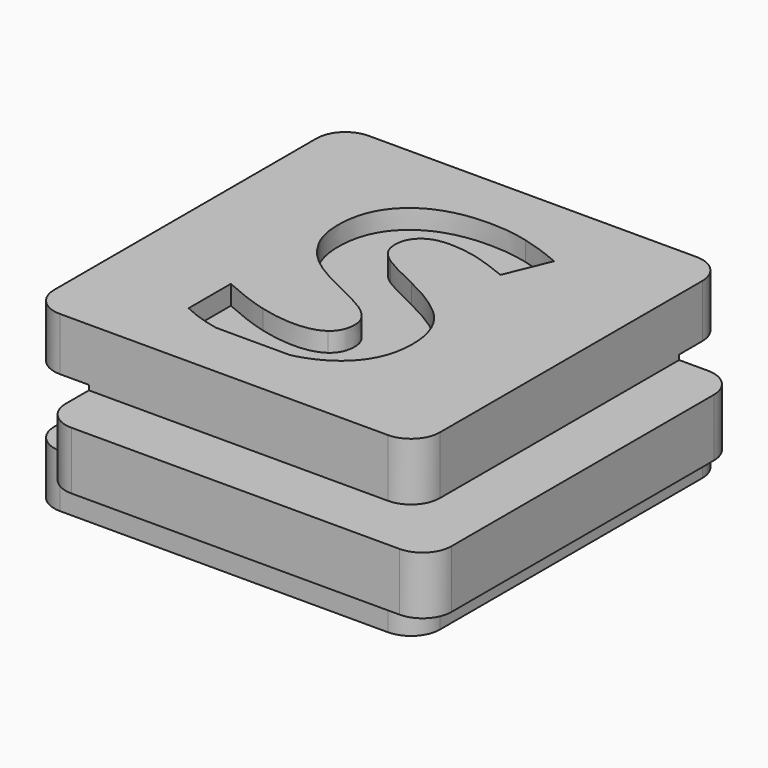
from build123d import *

# Parameters (mm, degrees)
F0_W     = 14
F0_H     = 3
F0_W_2   = 3
F1_DEPTH = 20
F2_DEPTH = 3
F3_W     = 3
F3_H     = 3
F4_DEPTH = 100
F5_W     = 3
F5_H     = 3.5
F6_DEPTH = 100
F7_R     = 1.5
F9_DEPTH = 1


with BuildPart() as f1:
    # F0 (on Front) → F1 (new body)
    with BuildSketch(Plane.XZ):
        Polygon((10, 1.5), (10, 4.5), (-10, 4.5), (-10, 1.5), (-7, 1.5), (7, 1.5), align=None)
        Rectangle(F0_W, F0_H)
        with Locations((11.5, 0)):
            Rectangle(F0_W_2, F0_H)
        with Locations((8.5, 0)):
            Rectangle(F0_W_2, F0_H)
        with Locations((-8.5, 0)):
            Rectangle(F0_W_2, F0_H)
        Polygon((10, -4.5), (10, -1.5), (7, -1.5), (-7, -1.5), (-10, -1.5), (-10, -4.5), align=None)
    extrude(amount=-F1_DEPTH)

    # F0 (on Front) → F2 (join)
    with BuildSketch(Plane.XZ):
        with Locations((-8.5, 0)):
            Rectangle(F0_W_2, F0_H)
        Rectangle(F0_W, F0_H)
        with Locations((8.5, 0)):
            Rectangle(F0_W_2, F0_H)
        with Locations((11.5, 0)):
            Rectangle(F0_W_2, F0_H)
    extrude(amount=F2_DEPTH)

    # F3 (on face) → F4 (cut)
    with BuildSketch(Plane.YZ.offset(13)):
        Polygon((23, -1.75), (23, 1.75), (17, 1.75), (17, 1.5), (20, 1.5), (20, -1.5), (17, -1.5), (17, -1.75), align=None)
        with Locations((18.5, 0)):
            Rectangle(F3_W, F3_H)
    extrude(amount=-F4_DEPTH, mode=Mode.SUBTRACT)

    # F5 (on face) → F6 (cut)
    with BuildSketch(Plane(origin=(0, 17, 0), x_dir=(-1, 0, 0), z_dir=(0, 1, 0))):
        with Locations((11.5, 0)):
            Rectangle(F5_W, F5_H)
        with Locations((8.5, 0)):
            Rectangle(F5_W, F5_H)
    extrude(amount=-F6_DEPTH, mode=Mode.SUBTRACT)

    # F7
    f7_edges = [f1.edges().sort_by_distance(p)[0] for p in [
        (-7, -3, 0),
        (13, -3, 0),
        (10, 0, 3),
        (10, 0, -3),
        (-10, 0, -3.125),
        (-10, 0, 3.125),
        (-7, 17, 0),
        (-10, 20, 3.125),
        (-10, 20, -3.125),
        (13, 17, 0),
        (10, 20, 3.125),
        (10, 20, -3.125),
    ]]
    fillet(f7_edges, radius=F7_R)

    # F8 (on face) → F9 (cut)
    with BuildSketch(Plane.XY.offset(4.5)):
        with BuildLine():
            Line((-2.8206877235, 3), (1.0255347449, 3))
            add(Edge.make_bspline(
                [(2.9492867111, 3.8917100694), (2.1647599693, 3.2639125757), (1.0255347449, 3)],
                knots=[0, 0, 0, 0.5796214889, 0.5796214889, 0.5796214889], degree=2))
            add(Edge.make_bspline(
                [(4.3028023361, 6.85546875), (4.3028023361, 4.9748263889), (2.9492867111, 3.8917100694)],
                knots=[0, 0, 0, 1, 1, 1], degree=2))
            add(Edge.make_bspline(
                [(3.5812311556, 9.1477864583), (4.3028023361, 8.2135416667), (4.3028023361, 6.85546875)],
                knots=[0, 0, 0, 1, 1, 1], degree=2))
            add(Edge.make_bspline(
                [(0.9121773361, 11.0147569444), (2.859659975, 10.08203125), (3.5812311556, 9.1477864583)],
                knots=[0, 0, 0, 1, 1, 1], degree=2))
            add(Edge.make_bspline(
                [(-0.9517549555, 11.9869791667), (-0.558308775, 11.7165798611), (0.9121773361, 11.0147569444)],
                knots=[0, 0, 0, 1, 1, 1], degree=2))
            add(Edge.make_bspline(
                [(-1.5259737055, 12.5475260417), (-1.3452011361, 12.2573784722), (-0.9517549555, 11.9869791667)],
                knots=[0, 0, 0, 1, 1, 1], degree=2))
            add(Edge.make_bspline(
                [(-1.706746275, 13.2265625), (-1.706746275, 12.8376736111), (-1.5259737055, 12.5475260417)],
                knots=[0, 0, 0, 1, 1, 1], degree=2))
            add(Edge.make_bspline(
                [(-1.2601316916, 14.2413194444), (-1.706746275, 13.8524305556), (-1.706746275, 13.2265625)],
                knots=[0, 0, 0, 1, 1, 1], degree=2))
            add(Edge.make_bspline(
                [(0.0219863639, 14.6302083333), (-0.8135171083, 14.6302083333), (-1.2601316916, 14.2413194444)],
                knots=[0, 0, 0, 1, 1, 1], degree=2))
            add(Edge.make_bspline(
                [(1.4499377528, 14.4494357639), (0.7238092806, 14.6302083333), (0.0219863639, 14.6302083333)],
                knots=[0, 0, 0, 1, 1, 1], degree=2))
            add(Edge.make_bspline(
                [(3.2880453917, 13.8129340278), (2.176066225, 14.2686631944), (1.4499377528, 14.4494357639)],
                knots=[0, 0, 0, 1, 1, 1], degree=2))
            Line((3.2880453917, 13.8129340278), (4.2359620584, 16.1037326389))
            add(Edge.make_bspline(
                [(2.1806235167, 16.8237847222), (3.1634794195, 16.5685763889), (4.2359620584, 16.1037326389)],
                knots=[0, 0, 0, 1, 1, 1], degree=2))
            add(Edge.make_bspline(
                [(0.1161703917, 17.0789930556), (1.1977676139, 17.0789930556), (2.1806235167, 16.8237847222)],
                knots=[0, 0, 0, 1, 1, 1], degree=2))
            add(Edge.make_bspline(
                [(-3.3352184972, 16.0262586806), (-2.0865205805, 17.0789930556), (0.1161703917, 17.0789930556)],
                knots=[0, 0, 0, 1, 1, 1], degree=2))
            add(Edge.make_bspline(
                [(-4.5839164139, 13.1293402778), (-4.5839164139, 14.9735243056), (-3.3352184972, 16.0262586806)],
                knots=[0, 0, 0, 1, 1, 1], degree=2))
            add(Edge.make_bspline(
                [(-4.2041421083, 11.421875), (-4.5839164139, 12.1540798611), (-4.5839164139, 13.1293402778)],
                knots=[0, 0, 0, 1, 1, 1], degree=2))
            add(Edge.make_bspline(
                [(-3.1878660666, 10.1397569444), (-3.8243678027, 10.6896701389), (-4.2041421083, 11.421875)],
                knots=[0, 0, 0, 1, 1, 1], degree=2))
            add(Edge.make_bspline(
                [(-1.2813990527, 8.9913194444), (-2.5513643305, 9.58984375), (-3.1878660666, 10.1397569444)],
                knots=[0, 0, 0, 1, 1, 1], degree=2))
            add(Edge.make_bspline(
                [(0.5187311556, 8.0509982639), (0.0766738639, 8.3441840278), (-1.2813990527, 8.9913194444)],
                knots=[0, 0, 0, 1, 1, 1], degree=2))
            add(Edge.make_bspline(
                [(1.1886530306, 7.4388020833), (0.9607884473, 7.7578125), (0.5187311556, 8.0509982639)],
                knots=[0, 0, 0, 1, 1, 1], degree=2))
            add(Edge.make_bspline(
                [(1.4165176139, 6.7126736111), (1.4165176139, 7.1197916667), (1.1886530306, 7.4388020833)],
                knots=[0, 0, 0, 1, 1, 1], degree=2))
            add(Edge.make_bspline(
                [(0.8985054611, 5.611328125), (1.4165176139, 5.98046875), (1.4165176139, 6.7126736111)],
                knots=[0, 0, 0, 1, 1, 1], degree=2))
            add(Edge.make_bspline(
                [(-0.585652525, 5.2421875), (0.3804933084, 5.2421875), (0.8985054611, 5.611328125)],
                knots=[0, 0, 0, 1, 1, 1], degree=2))
            add(Edge.make_bspline(
                [(-2.3675535666, 5.4973958333), (-1.3938122472, 5.2421875), (-0.585652525, 5.2421875)],
                knots=[0, 0, 0, 1, 1, 1], degree=2))
            add(Edge.make_bspline(
                [(-4.7449407194, 6.3815104167), (-3.3412948861, 5.7526041667), (-2.3675535666, 5.4973958333)],
                knots=[0, 0, 0, 1, 1, 1], degree=2))
            Line((-4.7449407194, 6.3815104167), (-4.7449407194, 3.6471354167))
            add(Edge.make_bspline(
                [(-2.8206877235, 3), (-3.8532452246, 3.2092209032), (-4.7449407194, 3.6471354167)],
                knots=[0.477766543, 0.477766543, 0.477766543, 1, 1, 1], degree=2))
        make_face()
    extrude(amount=-F9_DEPTH, mode=Mode.SUBTRACT)


solid = f1.part
